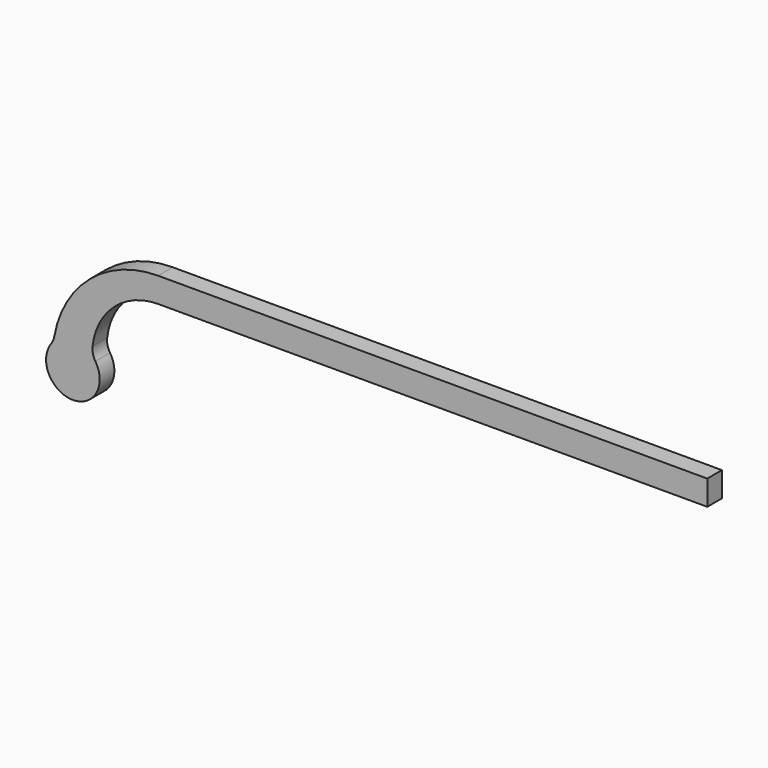
from build123d import *

# Parameters (mm, degrees)
F1_DEPTH = 5.08
F2_R     = 5.08


with BuildPart() as f1:
    # F0 (on Front) → F1 (new body)
    with BuildSketch(Plane.XZ):
        with BuildLine():
            Line((77.352171, 35.115106), (-75.047829, 35.115106))
            ThreePointArc((-75.047829, 35.115106), (-94.334729, 27.856756), (-104.050821, 9.683542))
            ThreePointArc((-104.050821, 9.683542), (-98.711588, -2.942531), (-93.372354, 9.683542))
            ThreePointArc((-93.372354, 9.683542), (-88.076021, 22.769908), (-75.047829, 28.207767))
            Line((-75.047829, 28.207767), (77.352171, 28.207767))
            Line((77.352171, 28.207767), (77.352171, 35.115106))
        make_face()
    extrude(amount=F1_DEPTH)

    # F2
    f2_edges = [f1.edges().sort_by_distance(p)[0] for p in [
        (-104.050821, -2.54, 9.683542),
        (-93.372354, -2.54, 9.683542),
        (-75.047829, -2.54, 35.115106),
        (-75.047829, -2.54, 28.207767),
    ]]
    fillet(f2_edges, radius=F2_R)


solid = f1.part
